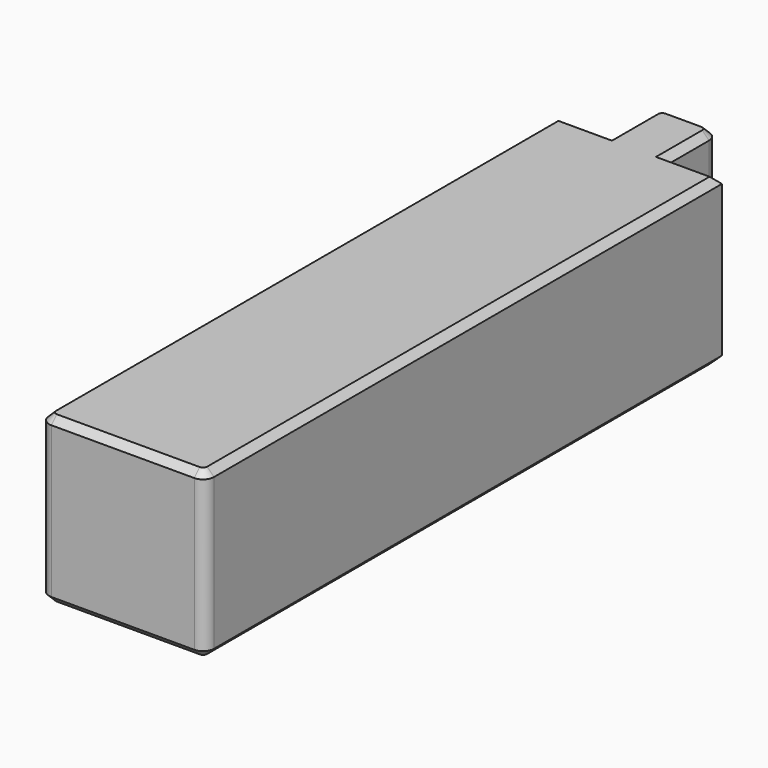
from build123d import *

# Parameters (mm, degrees)
F0_W     = 4.2
F0_H     = 4.5
F1_DEPTH = 12
F2_R     = 0.8
F3_SIZE  = 0.5


with BuildPart() as f1:
    # F0 (on Top) → F1 (new body)
    with BuildSketch(Plane.XY):
        Polygon((6, -23.5), (6, 23.5), (2.1, 23.5), (2.1, 19), (-2.1, 19), (-2.1, 23.5), (-6, 23.5), (-6, -23.5), align=None)
        with Locations((0, 21.25)):
            Rectangle(F0_W, F0_H)
        with Locations((0, 25.75)):
            Rectangle(F0_W, F0_H)
    extrude(amount=F1_DEPTH)

    # F2
    f2_edges = [f1.edges().sort_by_distance(p)[0] for p in [
        (2.1, 28, 6),
        (-2.1, 28, 6),
        (6, -23.5, 6),
        (-6, -23.5, 6),
    ]]
    fillet(f2_edges, radius=F2_R)

    # F3
    f3_edges = [f1.edges().sort_by_distance(p)[0] for p in [
        (6, 0.4, 12),
        (5.765685, -23.265685, 12),
        (4.05, 23.5, 12),
        (0, -23.5, 12),
        (2.1, 25.35, 12),
        (-5.765685, -23.265685, 12),
        (1.865685, 27.765685, 12),
        (-6, 0.4, 12),
        (0, 28, 12),
        (-4.05, 23.5, 12),
        (-1.865685, 27.765685, 12),
        (-2.1, 25.35, 12),
        (6, 0.4, 0),
        (5.765685, -23.265685, 0),
        (4.05, 23.5, 0),
        (0, -23.5, 0),
        (2.1, 25.35, 0),
        (-5.765685, -23.265685, 0),
        (1.865685, 27.765685, 0),
        (-6, 0.4, 0),
        (0, 28, 0),
        (-4.05, 23.5, 0),
        (-1.865685, 27.765685, 0),
        (-2.1, 25.35, 0),
    ]]
    chamfer(f3_edges, length=F3_SIZE)


solid = f1.part
